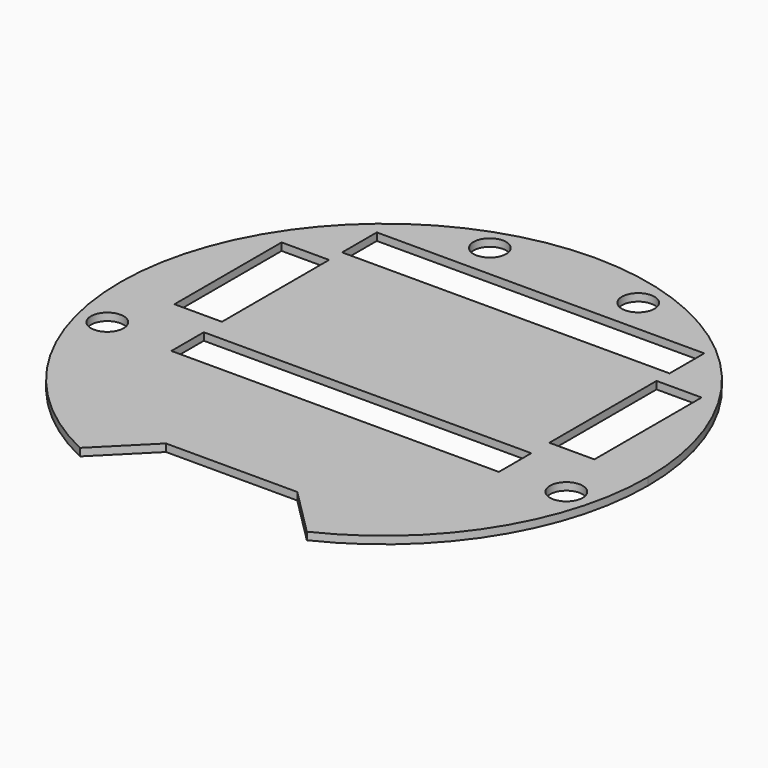
from build123d import *

# Parameters (mm, degrees)
F0_R     = 6.5
F0_W     = 18.890693
F0_H     = 53.3
F0_W_2   = 17.913587
F1_DEPTH = 3


with BuildPart() as f1:
    # F0 (on Top) → F1 (new body)
    with BuildSketch(Plane.XY):
        with BuildLine():
            Line((-0.027255, 77.031374), (-0.027255, 106.016069))
            ThreePointArc((-0.027255, 106.016069), (-102.446612, 24.152087), (-45.162038, -93.788211))
            Line((-45.162038, -93.788211), (-26.15007, -74.776243))
            Line((-26.15007, -74.776243), (-0.027255, -74.776243))
            Line((-0.027255, -74.776243), (-0.027255, -63.699956))
            Line((-0.027255, -63.699956), (-0.027255, -48.653428))
            Line((-0.027255, -48.653428), (-0.027255, -25.119923))
            Line((-0.027255, -25.119923), (-63.711368, -25.119923))
            Line((-63.711368, -25.119923), (-63.711368, -8.998516))
            Line((-63.711368, -8.998516), (-0.027255, -8.998516))
            Line((-0.027255, -8.998516), (-0.027255, 0))
            Line((-0.027255, 0), (-50.827254, 0))
            Line((-50.827254, 0), (-50.827254, 53.3))
            Line((-50.827254, 53.3), (-0.027255, 53.3))
            Line((-0.027255, 53.3), (-0.027255, 59.769183))
            Line((-0.027255, 59.769183), (-63.711368, 59.769183))
            Line((-63.711368, 59.769183), (-63.711368, 77.031374))
            Line((-63.711368, 77.031374), (-0.027255, 77.031374))
        make_face()
        with Locations((-91.341169, -22.449345)):
            Circle(F0_R, mode=Mode.SUBTRACT)
        with Locations((-73.156714, 26.65)):
            Rectangle(F0_W, F0_H, mode=Mode.SUBTRACT)
        with Locations((-29.749685, 90.793084)):
            Circle(F0_R, mode=Mode.SUBTRACT)
        with BuildLine():
            ThreePointArc((45.107527, -93.788211), (88.753802, -55.045718), (104.972745, 1.016069))
            ThreePointArc((104.972745, 1.016069), (74.218957, 75.262281), (-0.027255, 106.016069))
            Line((-0.027255, 106.016069), (-0.027255, 77.031374))
            Line((-0.027255, 77.031374), (66.569284, 77.031374))
            Line((66.569284, 77.031374), (66.569284, 59.769183))
            Line((66.569284, 59.769183), (-0.027255, 59.769183))
            Line((-0.027255, 59.769183), (-0.027255, 53.3))
            Line((-0.027255, 53.3), (50.772746, 53.3))
            Line((50.772746, 53.3), (50.772746, 0))
            Line((50.772746, 0), (-0.027255, 0))
            Line((-0.027255, 0), (-0.027255, -8.998516))
            Line((-0.027255, -8.998516), (66.569284, -8.998516))
            Line((66.569284, -8.998516), (66.569284, -25.119923))
            Line((66.569284, -25.119923), (-0.027255, -25.119923))
            Line((-0.027255, -25.119923), (-0.027255, -48.653428))
            Line((-0.027255, -48.653428), (-0.027255, -63.699956))
            Line((-0.027255, -63.699956), (-0.027255, -74.776243))
            Line((-0.027255, -74.776243), (26.095559, -74.776243))
            Line((26.095559, -74.776243), (45.107527, -93.788211))
        make_face()
        with Locations((91.286659, -22.449345)):
            Circle(F0_R, mode=Mode.SUBTRACT)
        with Locations((75.526077, 26.65)):
            Rectangle(F0_W_2, F0_H, mode=Mode.SUBTRACT)
        with Locations((29.269962, 90.793084)):
            Circle(F0_R, mode=Mode.SUBTRACT)
        Polygon((50.772746, 53.3), (-0.027255, 53.3), (-0.027255, 1.016069), (-0.027255, 0), (50.772746, 0), align=None)
        Polygon((-0.027255, 1.016069), (-0.027255, 53.3), (-50.827254, 53.3), (-50.827254, 0), (-0.027255, 0), align=None)
    extrude(amount=F1_DEPTH)


solid = f1.part
